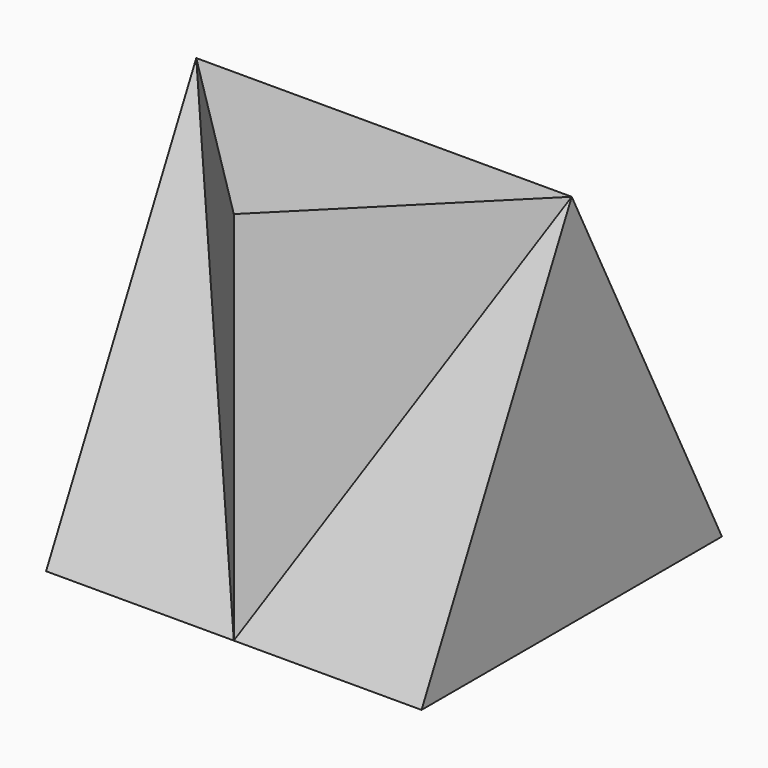
from build123d import *

# Parameters (mm, degrees)
F1_DEPTH = 20
F3_DEPTH = 40


with BuildPart() as f1:
    # F0 (on Right) → F1 (new body, symmetric)
    with BuildSketch(Plane.YZ):
        Polygon((20, 40), (0, 0), (40, 0), align=None)
    extrude(amount=F1_DEPTH, both=True)

    # F2 (on face) → F3 (join)
    with BuildSketch(Plane(origin=(0, 0, 0), x_dir=(1, 0, 0), z_dir=(0, 0, -1))):
        Polygon((20, -20), (0, 0), (-20, -20), align=None)
    extrude(amount=-F3_DEPTH)


solid = f1.part
